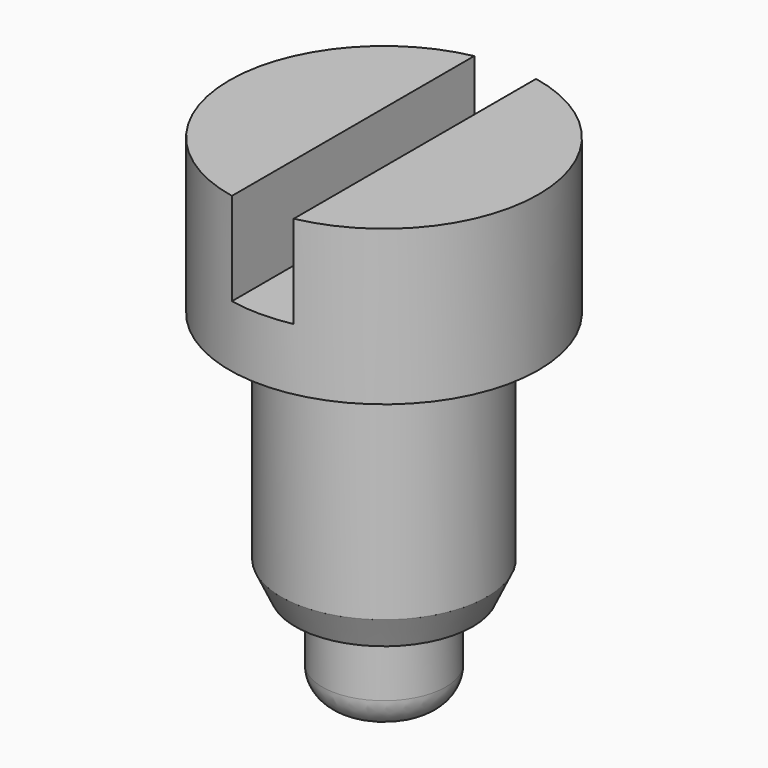
from build123d import *

# Parameters (mm, degrees)
F3_DEPTH = 0.6
F4_SCALE = 3


with BuildPart() as f1:
    # F0 (on Front) → F1 (revolve)
    with BuildSketch(Plane.XZ):
        with BuildLine():
            Line((0, 3.2), (0, 0))
            Line((0, 0), (0.2, 0))
            ThreePointArc((0.2, 0), (0.3414213562, 0.0585786438), (0.4, 0.2))
            Line((0.4, 0.2), (0.4, 0.6))
            Line((0.4, 0.6), (0.573405135, 0.6))
            Line((0.573405135, 0.6), (0.6666666667, 0.8))
            Line((0.6666666667, 0.8), (0.6666666667, 2.2))
            Line((0.6666666667, 2.2), (1, 2.2))
            Line((1, 2.2), (1, 3.2))
            Line((1, 3.2), (0, 3.2))
        make_face()
    revolve(axis=Axis((0, 0, 1.6), (0, 0, -1)))

    # F2 (on face) → F3 (cut)
    with BuildSketch(Plane.XY.offset(3.2)):
        with BuildLine():
            ThreePointArc((0.2, 0.9797958971), (0, 1), (-0.2, 0.9797958971))
            Line((-0.2, 0.9797958971), (-0.2, -0.9797958971))
            ThreePointArc((-0.2, -0.9797958971), (0, -1), (0.2, -0.9797958971))
            Line((0.2, -0.9797958971), (0.2, 0.9797958971))
        make_face()
    extrude(amount=-F3_DEPTH, mode=Mode.SUBTRACT)


with BuildPart() as f1_1:
    # F4: moved
    add(f1.part.scale(F4_SCALE))


solid = f1_1.part
